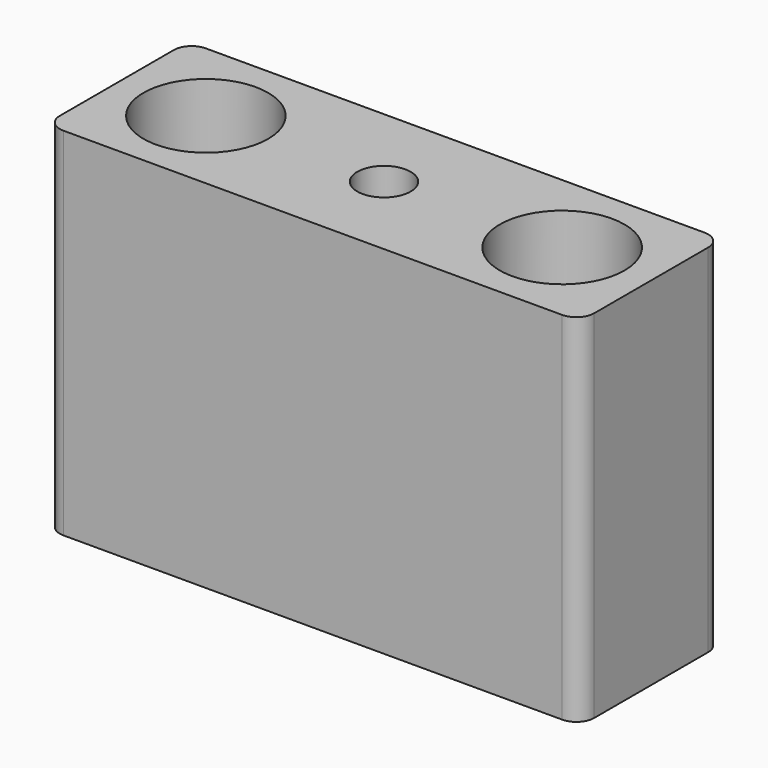
from build123d import *

# Parameters (mm, degrees)
F0_W     = 150
F0_H     = 50
F0_R     = 17.5
F0_R_2   = 7.5
F1_DEPTH = 100
F2_R     = 5


with BuildPart() as f1:
    # F0 (on Top) → F1 (new body)
    with BuildSketch(Plane.XY):
        Rectangle(F0_W, F0_H)
        with Locations((-50, 0)):
            Circle(F0_R, mode=Mode.SUBTRACT)
        Circle(F0_R_2, mode=Mode.SUBTRACT)
        with Locations((50, 0)):
            Circle(F0_R, mode=Mode.SUBTRACT)
    extrude(amount=F1_DEPTH)

    # F2
    f2_edges = [f1.edges().sort_by_distance(p)[0] for p in [
        (-75, -25, 50),
        (75, -25, 50),
        (75, 25, 50),
        (-75, 25, 50),
    ]]
    fillet(f2_edges, radius=F2_R)


solid = f1.part
